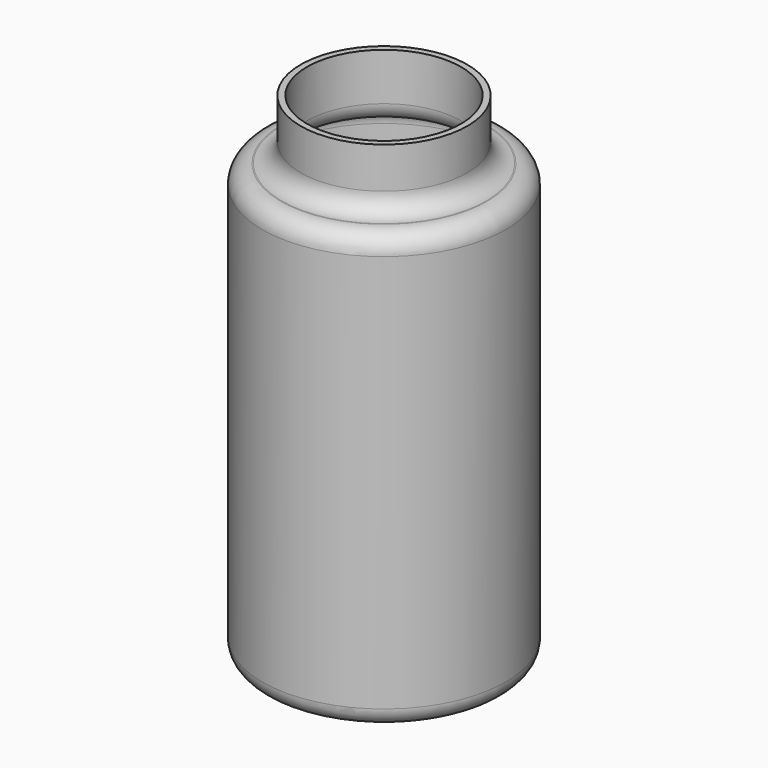
from build123d import *

# Parameters (mm, degrees)
F2_R = 9


with BuildPart() as f1:
    # F0 (on Right) → F1 (revolve)
    with BuildSketch(Plane.YZ):
        Polygon((-37, 85.725), (-37, 117.475), (-40, 117.475), (-40, 88.725), (-58.5, 88.725), (-58.5, -120.475), (0, -120.475), (0, -117.475), (-55.5, -117.475), (-55.5, 85.725), align=None)
    revolve(axis=Axis((0, 0, 0), (0, 0, -1)))

    # F2
    f2_edges = [f1.edges().sort_by_distance(p)[0] for p in [
        (0, 55.5, 85.725),
        (0, 37, 85.725),
        (0, 40, 88.725),
        (0, 58.5, 88.725),
        (0, 58.5, -120.475),
        (0, 55.5, -117.475),
    ]]
    fillet(f2_edges, radius=F2_R)


solid = f1.part
